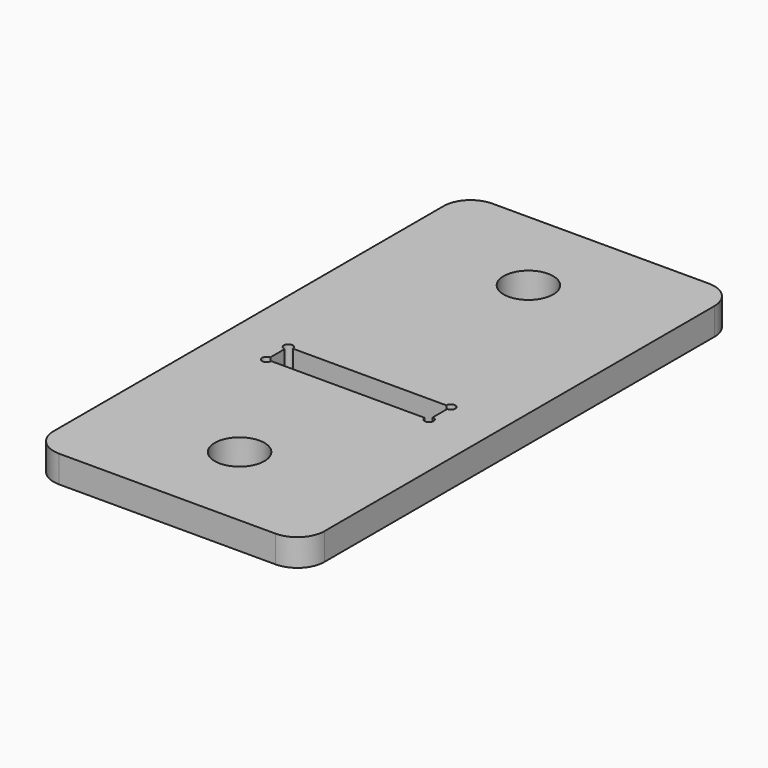
from build123d import *

# Parameters (mm, degrees)
F0_R     = 2.75
F1_DEPTH = 3


with BuildPart() as f1:
    # F0 (on Top) → F1 (new body)
    with BuildSketch(Plane.XY):
        with BuildLine():
            ThreePointArc((0, 3), (0.87868, 0.87868), (3, 0))
            Line((3, 0), (27, 0))
            ThreePointArc((27, 0), (29.12132, 0.87868), (30, 3))
            Line((30, 3), (30, 57))
            ThreePointArc((30, 57), (29.12132, 59.12132), (27, 60))
            Line((27, 60), (3, 60))
            ThreePointArc((3, 60), (0.87868, 59.12132), (0, 57))
            Line((0, 57), (0, 3))
        make_face()
        with Locations((15, 10)):
            Circle(F0_R, mode=Mode.SUBTRACT)
        with BuildLine():
            ThreePointArc((6, 27.5), (5.646447, 28.353553), (6.5, 28))
            Line((6.5, 28), (23.5, 28))
            ThreePointArc((23.5, 28), (24, 28.5), (24.5, 28))
            ThreePointArc((24.5, 28), (24.353553, 27.646447), (24, 27.5))
            Line((24, 27.5), (24, 25.5))
            ThreePointArc((24, 25.5), (24.353553, 25.353553), (24.5, 25))
            ThreePointArc((24.5, 25), (24, 24.5), (23.5, 25))
            Line((23.5, 25), (6.5, 25))
            ThreePointArc((6.5, 25), (5.646447, 24.646447), (6, 25.5))
            Line((6, 25.5), (6, 27.5))
        make_face(mode=Mode.SUBTRACT)
        with Locations((15, 50)):
            Circle(F0_R, mode=Mode.SUBTRACT)
    extrude(amount=F1_DEPTH)


solid = f1.part
